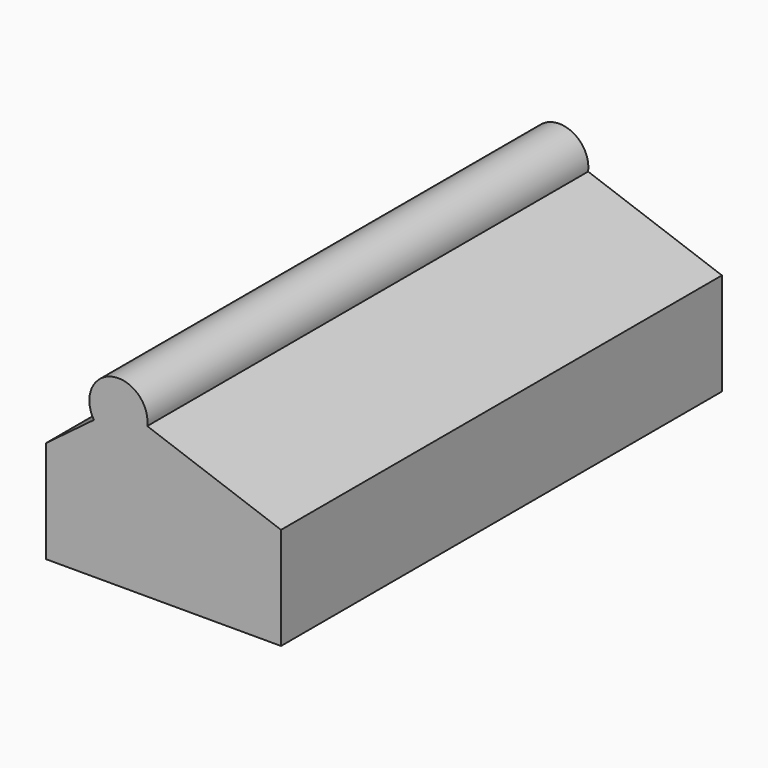
from build123d import *

# Parameters (mm, degrees)
F1_DEPTH = 152.4


with BuildPart() as f1:
    # F0 (on Front) → F1 (new body)
    with BuildSketch(Plane.XZ):
        with BuildLine():
            Line((-19.250525, 24.063157), (-4.511841, 27.371842))
            ThreePointArc((-4.511841, 27.371842), (-14.24445, 36.244776), (-19.250525, 24.063157))
        make_face()
        with BuildLine():
            Line((32.485262, -14.137105), (32.485262, 14.137105))
            ThreePointArc((32.485262, 14.137105), (28.009366, 7.175351), (23.688374, 0.116408))
            ThreePointArc((23.688374, 0.116408), (28.056379, -7.029135), (32.485262, -14.137105))
        make_face()
        with BuildLine():
            ThreePointArc((0, 0), (-6.721515, -0.179646), (-13.056424, -2.433521))
            ThreePointArc((-13.056424, -2.433521), (-6.123823, -3.386405), (0, 0))
        make_face()
        Polygon((-32.485262, 14.137105), (32.485262, 14.137105), (-4.511841, 27.371842), (-19.250525, 24.063157), align=None)
        with BuildLine():
            ThreePointArc((-19.250525, 7.519737), (-26.648968, 9.266272), (-32.485262, 14.137105))
            Line((-32.485262, 14.137105), (-32.485262, -14.137105))
            ThreePointArc((-32.485262, -14.137105), (-26.648968, -9.266272), (-19.250525, -7.519737))
            Line((-19.250525, -7.519737), (-19.250525, 7.519737))
        make_face()
        with BuildLine():
            Line((19.250525, -7.519737), (19.250525, 7.519737))
            ThreePointArc((19.250525, 7.519737), (17.388409, 1.367581), (12.42717, -2.719301))
            ThreePointArc((12.42717, -2.719301), (16.027978, -4.850689), (19.250525, -7.519737))
        make_face()
        with BuildLine():
            ThreePointArc((19.250525, -7.519737), (21.446943, -3.688584), (23.688374, 0.116408))
            ThreePointArc((23.688374, 0.116408), (21.461302, 3.813189), (19.250525, 7.519737))
            Line((19.250525, 7.519737), (19.250525, -7.519737))
        make_face()
        with BuildLine():
            ThreePointArc((-13.056424, -2.433521), (-17.575556, 1.65812), (-19.250525, 7.519737))
            Line((-19.250525, 7.519737), (-19.250525, -7.519737))
            ThreePointArc((-19.250525, -7.519737), (-16.393398, -4.684446), (-13.056424, -2.433521))
        make_face()
        with BuildLine():
            Line((-32.485262, -14.137105), (32.485262, -14.137105))
            ThreePointArc((32.485262, -14.137105), (28.056379, -7.029135), (23.688374, 0.116408))
            ThreePointArc((23.688374, 0.116408), (21.446943, -3.688584), (19.250525, -7.519737))
            Line((19.250525, -7.519737), (-19.250525, -7.519737))
            ThreePointArc((-19.250525, -7.519737), (-26.648968, -9.266272), (-32.485262, -14.137105))
        make_face()
        with BuildLine():
            ThreePointArc((23.688374, 0.116408), (28.009366, 7.175351), (32.485262, 14.137105))
            Line((32.485262, 14.137105), (-32.485262, 14.137105))
            ThreePointArc((-32.485262, 14.137105), (-26.648968, 9.266272), (-19.250525, 7.519737))
            Line((-19.250525, 7.519737), (19.250525, 7.519737))
            ThreePointArc((19.250525, 7.519737), (21.461302, 3.813189), (23.688374, 0.116408))
        make_face()
        with BuildLine():
            Line((-19.250525, -7.519737), (19.250525, -7.519737))
            ThreePointArc((19.250525, -7.519737), (16.027978, -4.850689), (12.42717, -2.719301))
            ThreePointArc((12.42717, -2.719301), (5.785105, -3.317798), (0, 0))
            ThreePointArc((0, 0), (-6.123823, -3.386405), (-13.056424, -2.433521))
            ThreePointArc((-13.056424, -2.433521), (-16.393398, -4.684446), (-19.250525, -7.519737))
        make_face()
        with BuildLine():
            Line((19.250525, 7.519737), (-19.250525, 7.519737))
            ThreePointArc((-19.250525, 7.519737), (-17.575556, 1.65812), (-13.056424, -2.433521))
            ThreePointArc((-13.056424, -2.433521), (-6.721515, -0.179646), (0, 0))
            ThreePointArc((0, 0), (5.785105, -3.317798), (12.42717, -2.719301))
            ThreePointArc((12.42717, -2.719301), (17.388409, 1.367581), (19.250525, 7.519737))
        make_face()
    extrude(amount=F1_DEPTH)


solid = f1.part
